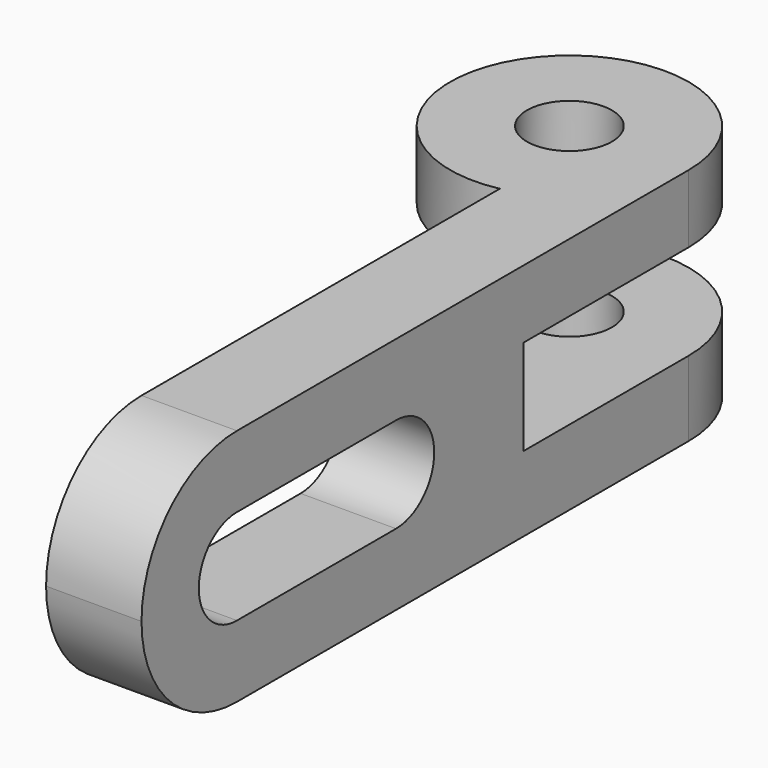
from build123d import *

# Parameters (mm, degrees)
F0_R     = 5.343381
F1_DEPTH = 15
F3_W     = 41
F3_H     = 12
F4_DEPTH = 62.101


with BuildPart() as f1:
    # F0 (on Top) → F1 (new body, symmetric)
    with BuildSketch(Plane.XY):
        with BuildLine():
            Line((15, -86), (15, 0))
            ThreePointArc((15, 0), (-11.61895, 9.486833), (3, -14.696938))
            Line((3, -14.696938), (3, -86))
            Line((3, -86), (15, -86))
        make_face()
        Circle(F0_R, mode=Mode.SUBTRACT)
    extrude(amount=F1_DEPTH, both=True)

    # F3 (on offset) → F4 (cut, through all)
    with BuildSketch(Plane.YZ.offset(-47.1)):
        with Locations((-5.5, 0.449385)):
            Rectangle(F3_W, F3_H)
        with BuildLine():
            Line((-71, -6), (-46, -6))
            ThreePointArc((-46, -6), (-40, 0), (-46, 6))
            Line((-46, 6), (-71, 6))
            ThreePointArc((-71, 6), (-77, 0), (-71, -6))
        make_face()
        with BuildLine():
            Line((-86, -15), (-71, -15))
            ThreePointArc((-71, -15), (-81.606602, -10.606602), (-86, 0))
            Line((-86, 0), (-86, -15))
        make_face()
        with BuildLine():
            Line((-86, 15), (-86, 0))
            ThreePointArc((-86, 0), (-81.606602, 10.606602), (-71, 15))
            Line((-71, 15), (-86, 15))
        make_face()
    extrude(amount=F4_DEPTH, mode=Mode.SUBTRACT)


solid = f1.part
